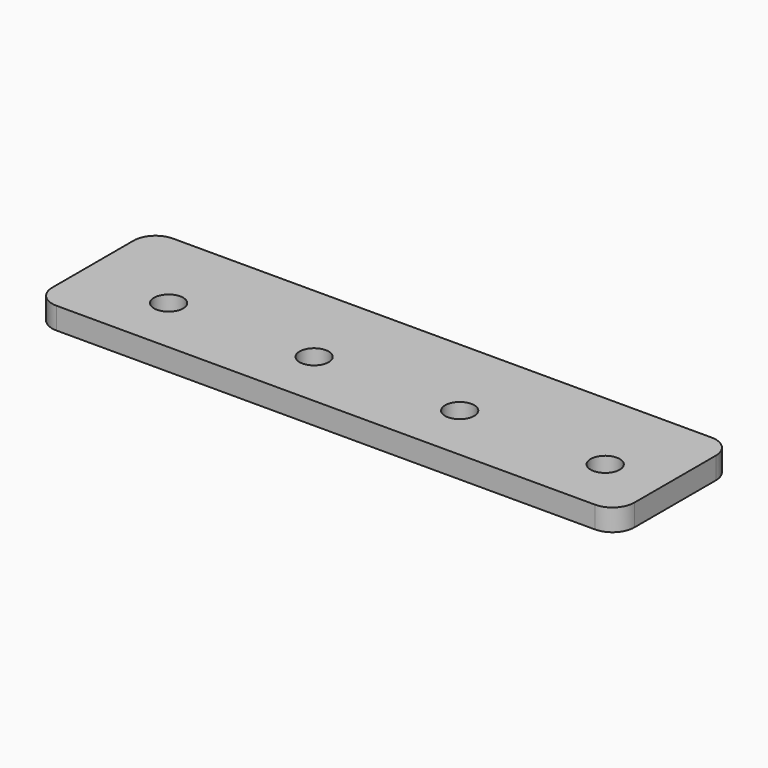
from build123d import *

# Parameters (mm, degrees)
F0_R     = 2
F1_DEPTH = 3


with BuildPart() as f1:
    # F0 (on Top) → F1 (new body)
    with BuildSketch(Plane.XY):
        with BuildLine():
            ThreePointArc((68, 9), (67.12132, 11.12132), (65, 12))
            Line((65, 12), (-9, 12))
            ThreePointArc((-9, 12), (-11.12132, 11.12132), (-12, 9))
            Line((-12, 9), (-12, -5))
            ThreePointArc((-12, -5), (-11.12132, -7.12132), (-9, -8))
            Line((-9, -8), (65, -8))
            ThreePointArc((65, -8), (67.12132, -7.12132), (68, -5))
            Line((68, -5), (68, 9))
        make_face()
        Circle(F0_R, mode=Mode.SUBTRACT)
        with Locations((20, 0)):
            Circle(F0_R, mode=Mode.SUBTRACT)
        with Locations((40, 0)):
            Circle(F0_R, mode=Mode.SUBTRACT)
        with Locations((60, 0)):
            Circle(F0_R, mode=Mode.SUBTRACT)
    extrude(amount=F1_DEPTH)


solid = f1.part
